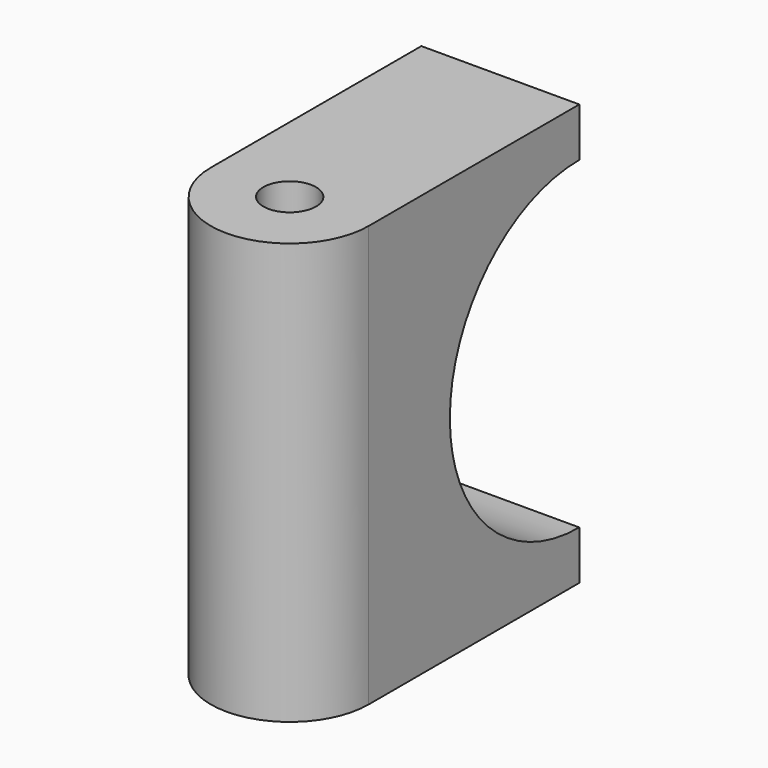
from build123d import *

# Parameters (mm, degrees)
F1_DEPTH = 80
F3_DEPTH = 55
F5_D     = 10


with BuildPart() as f1:
    # F0 (on Top) → F1 (new body)
    with BuildSketch(Plane.XY):
        with BuildLine():
            ThreePointArc((-15, 0), (0, -15), (15, 0))
            ThreePointArc((15, 0), (0, 15), (-15, 0))
        make_face()
        with BuildLine():
            ThreePointArc((-15, 0), (0, 15), (15, 0))
            Line((15, 0), (15, 50))
            Line((15, 50), (-15, 50))
            Line((-15, 50), (-15, 0))
        make_face()
    extrude(amount=F1_DEPTH)

    # F2 (on face) → F3 (cut)
    with BuildSketch(Plane(origin=(-15, 0, 0), x_dir=(0, -1, 0), z_dir=(-1, 0, 0))):
        with BuildLine():
            ThreePointArc((-50, 9.274351), (-19.274351, 40), (-50, 70.725649))
            Line((-50, 70.725649), (-50, 9.274351))
        make_face()
    extrude(amount=-F3_DEPTH, mode=Mode.SUBTRACT)

    # F5 (through all)
    with Locations(Plane(origin=(0, 0, 0), x_dir=(1, 0, 0), z_dir=(0, 0, -1))):
        with Locations((0, 0)):
            Hole(F5_D / 2)


solid = f1.part
